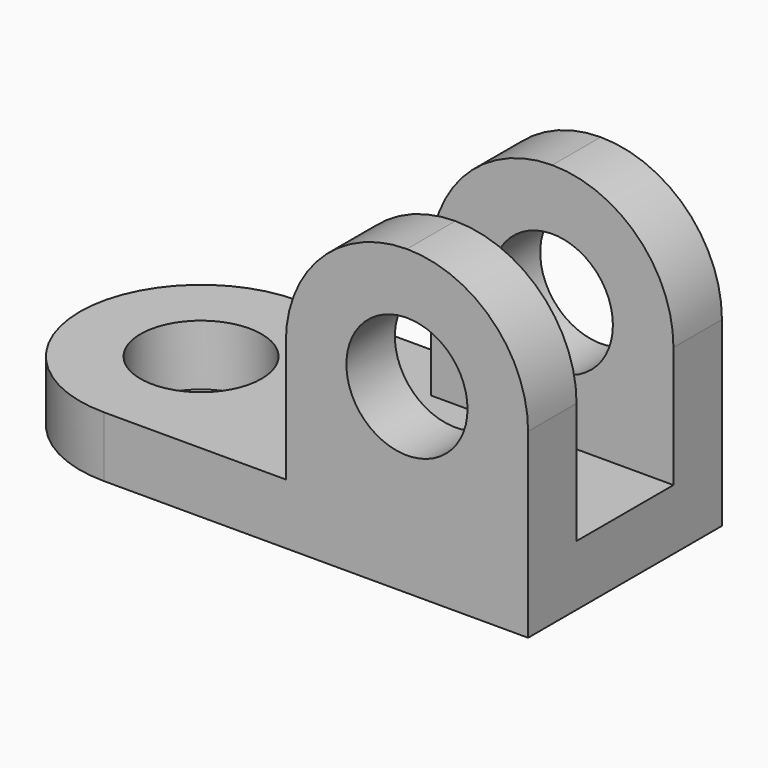
from build123d import *

# Parameters (mm, degrees)
F1_DEPTH = 12.7
F2_R     = 12.7
F3_DEPTH = 12.701
F4_W     = 50.8
F4_H     = 12.7
F5_DEPTH = 50.8
F6_R     = 12.7
F7_DEPTH = 50.801


with BuildPart() as f1:
    # F0 (on Top) → F1 (new body)
    with BuildSketch(Plane.XY):
        with BuildLine():
            ThreePointArc((25.4, 25.4), (17.960512, 7.439488), (0, 0))
            Line((0, 0), (88.9, 0))
            Line((88.9, 0), (88.9, 50.8))
            Line((88.9, 50.8), (0, 50.8))
            ThreePointArc((0, 50.8), (17.960512, 43.360512), (25.4, 25.4))
        make_face()
        with BuildLine():
            Line((0, 50.8), (0, 0))
            ThreePointArc((0, 0), (17.960512, 7.439488), (25.4, 25.4))
            ThreePointArc((25.4, 25.4), (17.960512, 43.360512), (0, 50.8))
        make_face()
        with BuildLine():
            ThreePointArc((0, 50.8), (-25.4, 25.4), (0, 0))
            Line((0, 0), (0, 50.8))
        make_face()
    extrude(amount=F1_DEPTH)

    # F2 (on face) → F3 (cut, through all)
    with BuildSketch(Plane.XY.offset(12.7)):
        with Locations((0, 25.4)):
            Circle(F2_R)
    extrude(amount=-F3_DEPTH, mode=Mode.SUBTRACT)

    # F4 (on face) → F5 (join)
    with BuildSketch(Plane.XY.offset(12.7)):
        with Locations((63.5, 44.45)):
            Rectangle(F4_W, F4_H)
        with Locations((63.5, 6.35)):
            Rectangle(F4_W, F4_H)
    extrude(amount=F5_DEPTH)

    # F6 (on face) → F7 (cut, through all)
    with BuildSketch(Plane.XZ):
        with BuildLine():
            ThreePointArc((63.5, 63.5), (81.460512, 56.060512), (88.9, 38.1))
            Line((88.9, 38.1), (88.9, 63.5))
            Line((88.9, 63.5), (63.5, 63.5))
        make_face()
        with BuildLine():
            ThreePointArc((38.1, 38.1), (45.539488, 56.060512), (63.5, 63.5))
            Line((63.5, 63.5), (38.1, 63.5))
            Line((38.1, 63.5), (38.1, 38.1))
        make_face()
        with Locations((63.5, 38.1)):
            Circle(F6_R)
    extrude(amount=-F7_DEPTH, mode=Mode.SUBTRACT)


solid = f1.part
